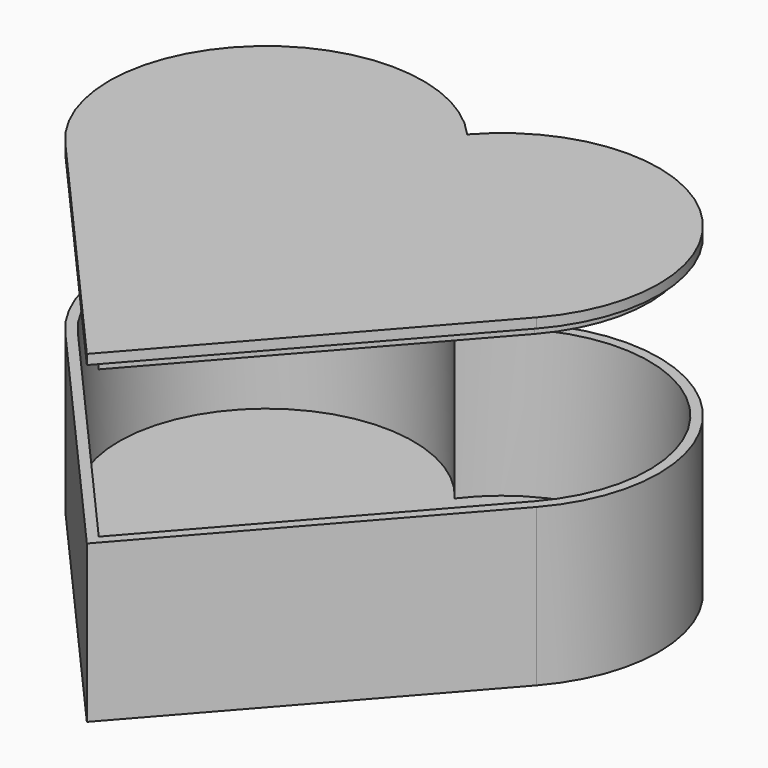
from build123d import *

# Parameters (mm, degrees)
F1_DEPTH = 25.4
F2_T     = -1.5875
F6_DEPTH = 1.5875
F8_DEPTH = 1.5875


with BuildPart() as f1:
    # F0 (on Top) → F1 (new body)
    with BuildSketch(Plane.XY):
        with BuildLine():
            ThreePointArc((38.1133181079, -16.7854074338), (35.8429654498, 19.0566605522), (0, 16.8005208253))
            ThreePointArc((0, 16.8005208253), (-35.8429654498, 19.0566605522), (-38.1133181079, -16.7854074338))
            Line((-38.1133181079, -16.7854074338), (0, -60.071))
            Line((0, -60.071), (38.1133181079, -16.7854074338))
        make_face()
    extrude(amount=F1_DEPTH)

    # F2
    f2_openings = [f1.faces().sort_by_distance(p)[0] for p in [
        (0, -8.527335, 25.4),
    ]]
    offset(amount=F2_T, openings=f2_openings, kind=Kind.INTERSECTION)


with BuildPart() as f3_1:
    # F3: copy of F1
    add(f1.part)


with BuildPart() as f6:
    # F5 (on offset) → F6 (new body)
    with BuildSketch(Plane.XY.offset(50.8)):
        with BuildLine():
            ThreePointArc((38.1133181079, -16.7854074338), (35.8429654498, 19.0566605522), (0, 16.8005208253))
            ThreePointArc((0, 16.8005208253), (-35.8429654498, 19.0566605522), (-38.1133181079, -16.7854074338))
            Line((-38.1133181079, -16.7854074338), (0, -60.071))
            Line((0, -60.071), (38.1133181079, -16.7854074338))
        make_face()
    extrude(amount=F6_DEPTH)

    # F7 (on face) → F8 (join)
    with BuildSketch(Plane(origin=(0, 0, 50.8), x_dir=(1, 0, 0), z_dir=(0, 0, -1))):
        with BuildLine():
            ThreePointArc((0, -14.2875), (34.0734628803, -18.4751378705), (36.9218607261, 15.7363194692))
            Line((36.9218607261, 15.7363194692), (0, 57.6687645965))
            Line((0, 57.6687645965), (-36.9218607261, 15.7363194692))
            ThreePointArc((-36.9218607261, 15.7363194692), (-34.0734628803, -18.4751378705), (0, -14.2875))
        make_face()
        with BuildLine():
            ThreePointArc((35.7304033444, 14.6872315046), (32.1710301471, -17.9384835724), (0, -11.4476252996))
            ThreePointArc((0, -11.4476252996), (-32.1710301471, -17.9384835724), (-35.7304033444, 14.6872315046))
            Line((-35.7304033444, 14.6872315046), (0, 55.266529193))
            Line((0, 55.266529193), (35.7304033444, 14.6872315046))
        make_face(mode=Mode.SUBTRACT)
    extrude(amount=F8_DEPTH)


solid = Compound([f1.part, f3_1.part, f6.part])
